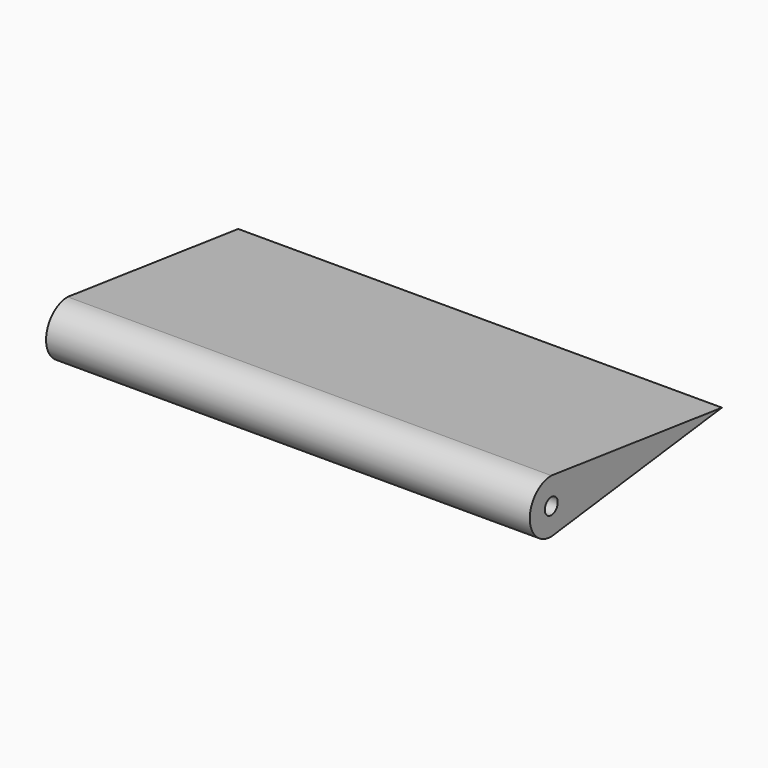
from build123d import *

# Parameters (mm, degrees)
F0_R     = 2.8575
F1_DEPTH = 114.3
F2_DEPTH = 2.0828
F3_R     = 1.905
F4_DEPTH = 25.4


with BuildPart() as f1:
    # F0 (on Right) → F1 (new body)
    with BuildSketch(Plane.YZ):
        with BuildLine():
            Line((50.401562, 0), (0, 6.35))
            ThreePointArc((0, 6.35), (-6.35, 0), (0, -6.35))
            Line((0, -6.35), (50.401562, 0))
        make_face()
        with BuildLine():
            ThreePointArc((0.305643, -3.670296), (-3.683, 0), (0.305643, 3.670296))
            Line((0.305643, 3.670296), (18.54337, 2.151553))
            ThreePointArc((18.54337, 2.151553), (20.5232, 0), (18.54337, -2.151553))
            Line((18.54337, -2.151553), (0.305643, -3.670296))
        make_face(mode=Mode.SUBTRACT)
        with BuildLine():
            Line((18.54337, 2.151553), (0.305643, 3.670296))
            ThreePointArc((0.305643, 3.670296), (-3.683, 0), (0.305643, -3.670296))
            Line((0.305643, -3.670296), (18.54337, -2.151553))
            ThreePointArc((18.54337, -2.151553), (20.5232, 0), (18.54337, 2.151553))
        make_face()
        Circle(F0_R, mode=Mode.SUBTRACT)
        Circle(F0_R)
    extrude(amount=F1_DEPTH)

    # F0 (on Right) → F2 (cut)
    with BuildSketch(Plane.YZ):
        with BuildLine():
            Line((18.54337, 2.151553), (0.305643, 3.670296))
            ThreePointArc((0.305643, 3.670296), (-3.683, 0), (0.305643, -3.670296))
            Line((0.305643, -3.670296), (18.54337, -2.151553))
            ThreePointArc((18.54337, -2.151553), (20.5232, 0), (18.54337, 2.151553))
        make_face()
        Circle(F0_R, mode=Mode.SUBTRACT)
        Circle(F0_R)
    extrude(amount=F2_DEPTH, mode=Mode.SUBTRACT)

    # F3 (on face) → F4 (cut)
    with BuildSketch(Plane.YZ.offset(114.3)):
        Circle(F3_R)
    extrude(amount=-F4_DEPTH, mode=Mode.SUBTRACT)


solid = f1.part
